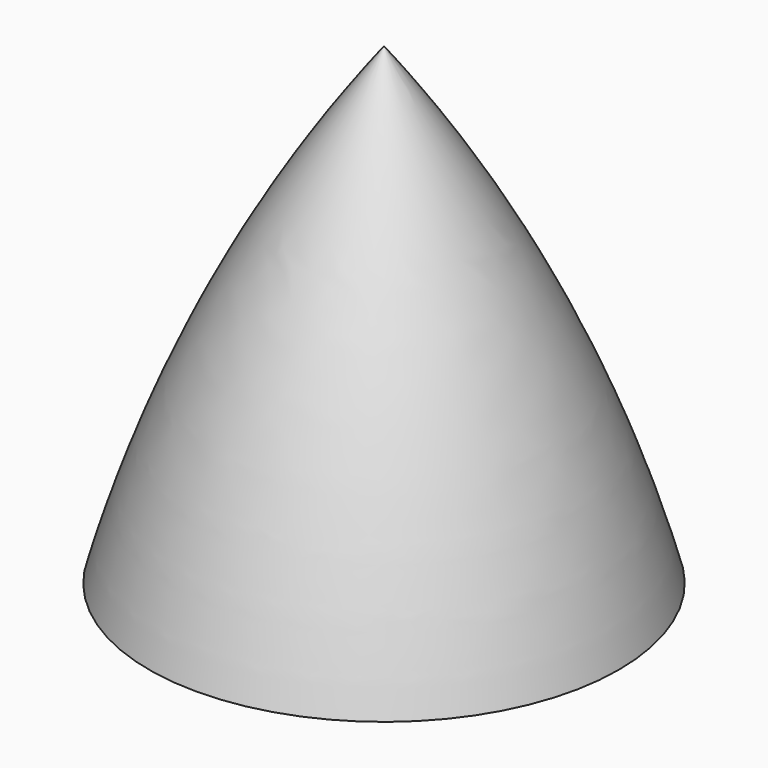
from build123d import *


with BuildPart() as f1:
    # F0 (on Front) → F1 (revolve)
    with BuildSketch(Plane.XZ):
        with BuildLine():
            ThreePointArc((32.459311, 65.331586), (13.074095, 34.2336), (0, 0))
            Line((0, 0), (32.459311, 0))
            Line((32.459311, 0), (32.459311, 65.331586))
        make_face()
    revolve(axis=Axis((32.459311, 0, 32.665793), (0, 0, 1)))


solid = f1.part
